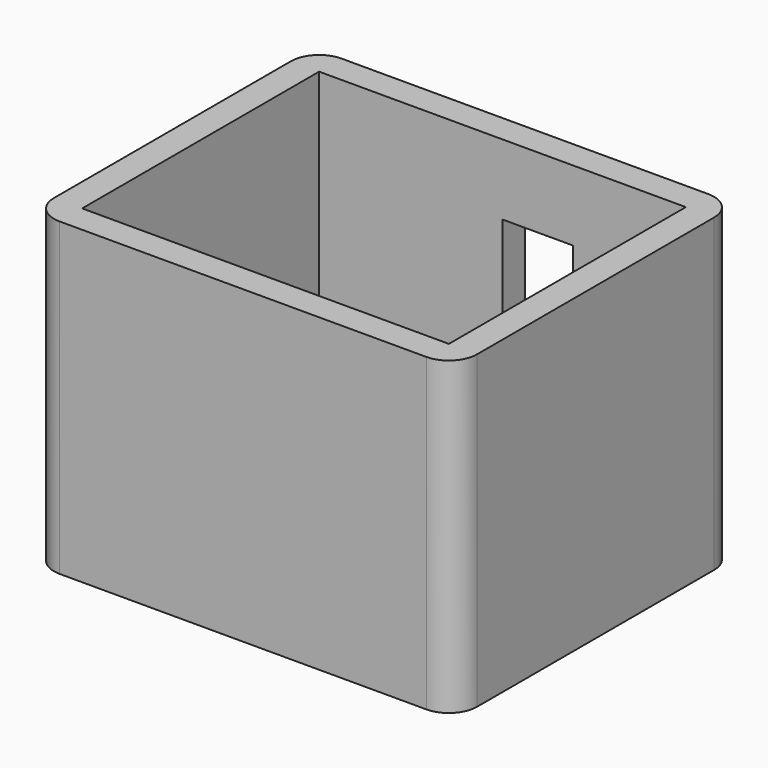
from build123d import *

# Parameters (mm, degrees)
SKETCH_W        = 30
SKETCH_H        = 25
PAD_DEPTH       = 2
SKETCH001_R     = 1.5
SKETCH001_R_2   = 2
POCKET_DEPTH    = 5
SKETCH002_W     = 30
SKETCH002_H     = 25
SKETCH002_W_2   = 26
SKETCH002_H_2   = 21
PAD001_DEPTH    = 20
SKETCH003_W     = 5
SKETCH003_H     = 12
POCKET001_DEPTH = 5
FILLET_R        = 2
FILLET001_R     = 2
FILLET002_R     = 2
FILLET003_R     = 2


with BuildPart() as part:
    # Sketch → Pad (new body)
    with BuildSketch(Plane.XY):
        with Locations((15, 12.5)):
            Rectangle(SKETCH_W, SKETCH_H)
    extrude(amount=PAD_DEPTH)

    # Sketch001 → Pocket (cut)
    with BuildSketch(Plane.XY.offset(2)):
        with Locations((5, 20)):
            Circle(SKETCH001_R)
        with Locations((25, 20)):
            Circle(SKETCH001_R)
        with Locations((25, 5)):
            Circle(SKETCH001_R_2)
        with Locations((5, 5)):
            Circle(SKETCH001_R)
    extrude(amount=-POCKET_DEPTH, mode=Mode.SUBTRACT)

    # Sketch002 → Pad001 (new body)
    with BuildSketch(Plane.XY.offset(2)):
        with Locations((15, 12.5)):
            Rectangle(SKETCH002_W, SKETCH002_H)
        with Locations((15, 12.5)):
            Rectangle(SKETCH002_W_2, SKETCH002_H_2, mode=Mode.SUBTRACT)
    extrude(amount=PAD001_DEPTH)

    # Sketch003 → Pocket001 (cut)
    with BuildSketch(Plane(origin=(0, 25, 0), x_dir=(-1, 0, 0), z_dir=(0, 1, 0))):
        with Locations((-17.5, 11)):
            Rectangle(SKETCH003_W, SKETCH003_H)
    extrude(amount=-POCKET001_DEPTH, mode=Mode.SUBTRACT)

    # Fillet
    fillet_edges = [part.edges().sort_by_distance(p)[0] for p in [
        (0, 25, 11),
    ]]
    fillet(fillet_edges, radius=FILLET_R)

    # Fillet001
    fillet001_edges = [part.edges().sort_by_distance(p)[0] for p in [
        (0, 0, 11),
    ]]
    fillet(fillet001_edges, radius=FILLET001_R)

    # Fillet002
    fillet002_edges = [part.edges().sort_by_distance(p)[0] for p in [
        (30, 25, 11),
    ]]
    fillet(fillet002_edges, radius=FILLET002_R)

    # Fillet003
    fillet003_edges = [part.edges().sort_by_distance(p)[0] for p in [
        (30, 0, 11),
    ]]
    fillet(fillet003_edges, radius=FILLET003_R)


solid = part.part
